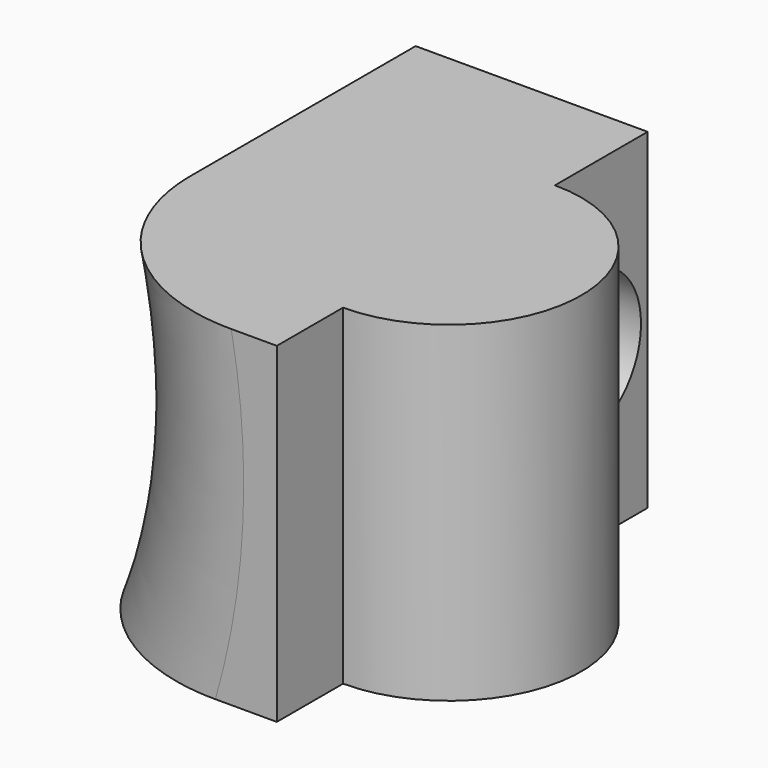
from build123d import *

# Parameters (mm, degrees)
PAD_DEPTH       = 20
POCKET_DEPTH    = 30.001
SKETCH002_R     = 4.5
POCKET001_DEPTH = 6
SKETCH003_R     = 3
POCKET002_DEPTH = 15.001
SKETCH004_W     = 15
SKETCH004_H     = 2
POCKET003_DEPTH = 20.001
FILLET_R        = 11


with BuildPart() as part:
    # Sketch → Pad (new body)
    with BuildSketch(Plane.XY):
        with BuildLine():
            Line((-15, -15), (0, -15))
            Line((0, -15), (0, -8))
            ThreePointArc((0, -8), (8, 0), (0, 8))
            Line((0, 15), (0, 8))
            Line((-15, 15), (0, 15))
            Line((-15, 15), (-15, -15))
        make_face()
    extrude(amount=PAD_DEPTH)

    # Sketch001 → Pocket (cut, through all)
    with BuildSketch(Plane(origin=(0, 15, 0), x_dir=(-1, 0, 0), z_dir=(0, 1, 0))):
        with BuildLine():
            Line((19.016133, 20), (19.016133, 0))
            Line((19.016133, 0), (15.335206, 0))
            ThreePointArc((14.016133, 20), (13.069372, 9.894059), (15.335206, 0))
            Line((19.016133, 20), (14.016133, 20))
        make_face()
    extrude(amount=-POCKET_DEPTH, mode=Mode.SUBTRACT)

    # Sketch002 → Pocket001 (cut, symmetric)
    with BuildSketch(Plane.YZ):
        with Locations((10, 10)):
            Circle(SKETCH002_R)
    extrude(amount=POCKET001_DEPTH, both=True, mode=Mode.SUBTRACT)

    # Sketch003 → Pocket002 (cut, through all)
    with BuildSketch(Plane.YZ):
        with Locations((10, 10)):
            Circle(SKETCH003_R)
    extrude(amount=-POCKET002_DEPTH, mode=Mode.SUBTRACT)

    # Sketch004 → Pocket003 (cut, through all)
    with BuildSketch(Plane.XY.offset(20)):
        with Locations((-7.5, -14)):
            Rectangle(SKETCH004_W, SKETCH004_H)
    extrude(amount=-POCKET003_DEPTH, mode=Mode.SUBTRACT)

    # Fillet
    fillet_edges = [part.edges().sort_by_distance(p)[0] for p in [
        (-13.042214, -13, 10.356868),
    ]]
    fillet(fillet_edges, radius=FILLET_R)


solid = part.part
